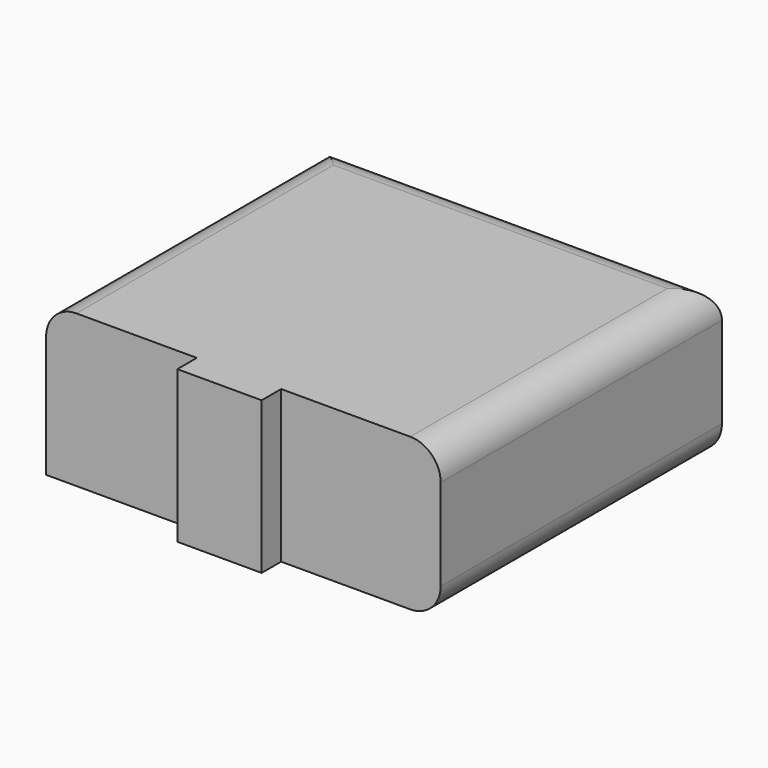
from build123d import *

# Parameters (mm, degrees)
F0_W     = 14.0914916992
F0_H     = 13.3883208036
F0_H_2   = 4.0725544095
F1_DEPTH = 25.4
F2_R     = 5.08


with BuildPart() as f1:
    # F0 (on Top) → F1 (new body)
    with BuildSketch(Plane.XY):
        Polygon((-14.0914916992, 52.0800277591), (-14.0914916992, 65.4683485627), (0, 65.4683485627), (0, 52.0800277591), (26.658244431, 52.0800277591), (26.658244431, 110.8265519142), (-39.2834246159, 110.8265519142), (-39.2834246159, 52.0800277591), align=None)
        with Locations((-7.0457458496, 58.7741881609)):
            Rectangle(F0_W, F0_H)
        with Locations((-7.0457458496, 50.0437505543)):
            Rectangle(F0_W, F0_H_2)
    extrude(amount=F1_DEPTH)

    # F2
    f2_edges = [f1.edges().sort_by_distance(p)[0] for p in [
        (26.658244, 81.45329, 25.4),
        (26.658244, 81.45329, 0),
        (-39.283425, 81.45329, 25.4),
        (-6.31259, 110.826552, 25.4),
    ]]
    fillet(f2_edges, radius=F2_R)


solid = f1.part
